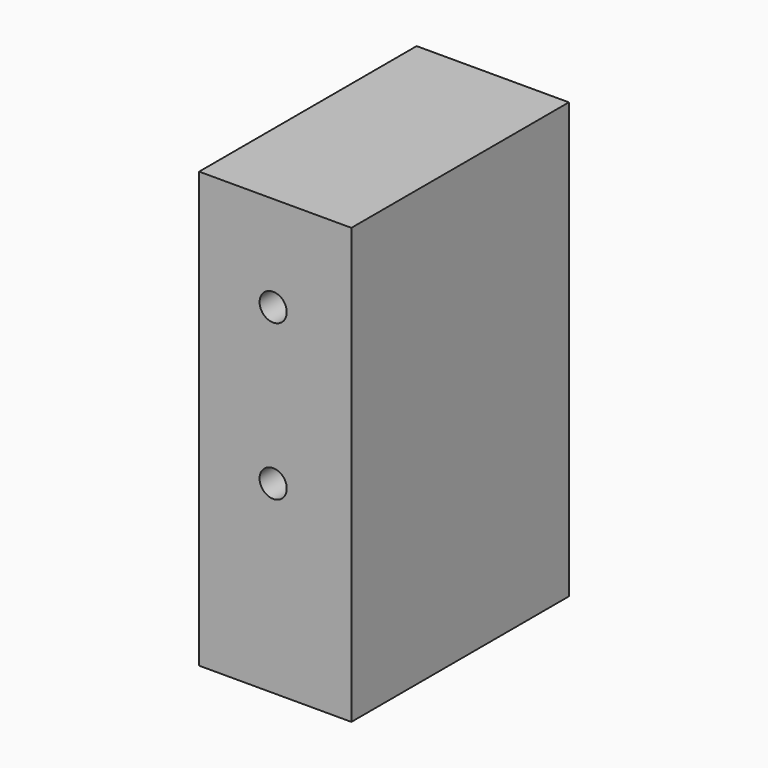
from build123d import *

# Parameters (mm, degrees)
F0_W     = 35.56
F0_H     = 101.6
F1_DEPTH = 63.5
F3_D     = 6.35
F3_DEPTH = 48.26
F3_TIP   = 1.9077324654


with BuildPart() as f1:
    # F0 (on Front) → F1 (new body)
    with BuildSketch(Plane.XZ):
        with Locations((17.78, 50.8)):
            Rectangle(F0_W, F0_H)
    extrude(amount=F1_DEPTH)

    # F3
    with Locations(Plane.XZ.offset(63.5)):
        with Locations((17.2923281789, 43.087489903), (17.2923281789, 79.351015389)):
            Hole(F3_D / 2, depth=F3_DEPTH)
            with Locations((0, 0, -(F3_DEPTH + F3_TIP / 2))):  # 118° drill point
                Cone(0, F3_D / 2, F3_TIP, mode=Mode.SUBTRACT)


solid = f1.part
